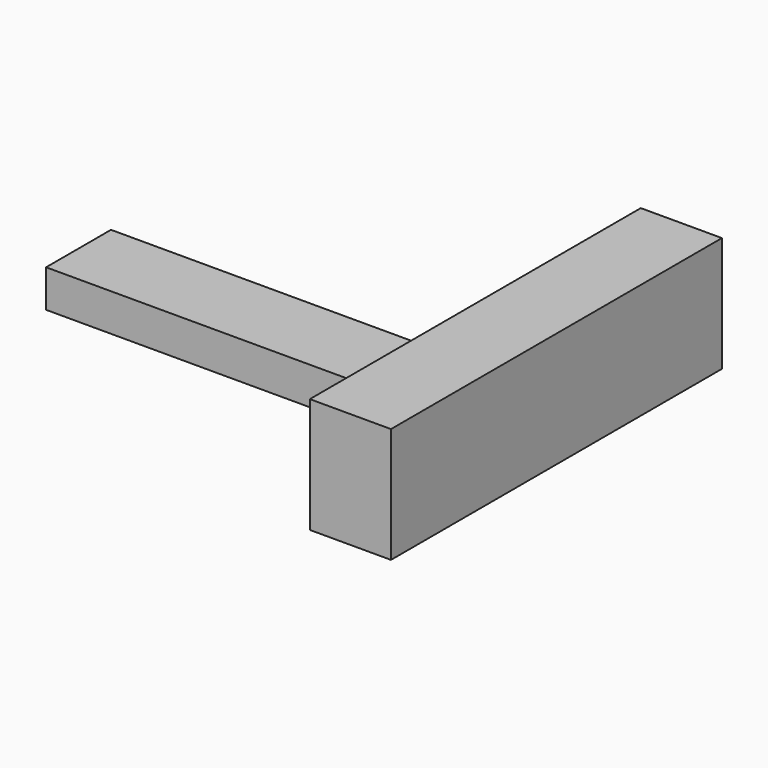
from build123d import *

# Parameters (mm, degrees)
F0_W     = 127.458453
F0_H     = 35.48326
F1_DEPTH = 12.5
F2_W     = 102.447832
F2_H     = 11.54632
F3_DEPTH = 25


with BuildPart() as f1:
    # F0 (on Right) → F1 (new body, symmetric)
    with BuildSketch(Plane.YZ):
        with Locations((11.587135, -1.149962)):
            Rectangle(F0_W, F0_H)
    extrude(amount=F1_DEPTH, both=True)


with BuildPart() as f3:
    # F2 (on Front) → F3 (new body)
    with BuildSketch(Plane.XZ):
        with Locations((-64.248833, 2.059873)):
            Rectangle(F2_W, F2_H)
    extrude(amount=F3_DEPTH)


solid = Compound([f1.part, f3.part])
